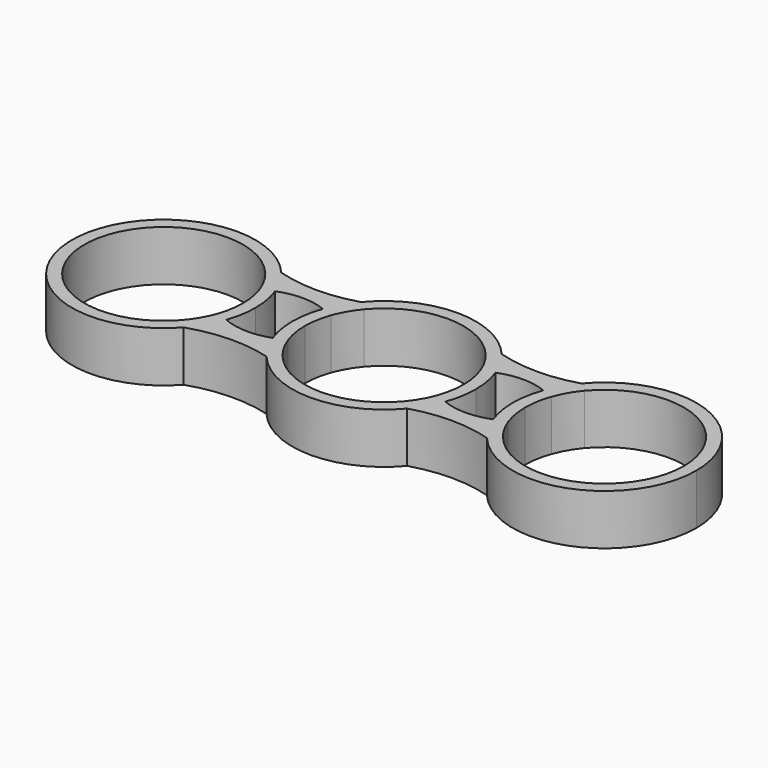
from build123d import *

# Parameters (mm, degrees)
F1_DEPTH = 6.985


with BuildPart() as f1:
    # F0 (on Top) → F1 (new body)
    with BuildSketch(Plane.XY):
        with BuildLine():
            ThreePointArc((8.4056524655, 7.0531798836), (9.5027235506, 5.4864), (10.3110591894, 3.7529186287))
            Line((10.3110591894, 3.7529186287), (11.934096284, 4.3436558202))
            ThreePointArc((11.934096284, 4.3436558202), (10.9985226281, 6.35), (9.7287644276, 8.163402643))
            Line((9.7287644276, 8.163402643), (8.4056524655, 7.0531798836))
        make_face()
        with BuildLine():
            Line((11.934096284, -4.3436558202), (10.3110591894, -3.7529186287))
            ThreePointArc((10.3110591894, -3.7529186287), (9.5027235506, -5.4864), (8.4056524655, -7.0531798836))
            Line((8.4056524655, -7.0531798836), (9.7287644276, -8.163402643))
            ThreePointArc((9.7287644276, -8.163402643), (10.9985226281, -6.35), (11.934096284, -4.3436558202))
        make_face()
        with BuildLine():
            ThreePointArc((-8.4056524655, 7.0531798836), (0, 10.9728), (8.4056524655, 7.0531798836))
            Line((8.4056524655, 7.0531798836), (9.7287644276, 8.163402643))
            ThreePointArc((9.7287644276, 8.163402643), (0, 12.7), (-9.7287644276, 8.163402643))
            Line((-9.7287644276, 8.163402643), (-8.4056524655, 7.0531798836))
        make_face()
        with BuildLine():
            ThreePointArc((9.7287644276, 8.163402643), (10.9985226281, 6.35), (11.934096284, 4.3436558202))
            ThreePointArc((11.934096284, 4.3436558202), (15.24, 4.9811955434), (18.545903716, 4.3436558202))
            ThreePointArc((18.545903716, 4.3436558202), (19.4814773719, 6.35), (20.7512355724, 8.163402643))
            ThreePointArc((20.7512355724, 8.163402643), (15.24, 7.3487743822), (9.7287644276, 8.163402643))
        make_face()
        with BuildLine():
            Line((9.7287644276, -8.163402643), (8.4056524655, -7.0531798836))
            ThreePointArc((8.4056524655, -7.0531798836), (0, -10.9728), (-8.4056524655, -7.0531798836))
            Line((-8.4056524655, -7.0531798836), (-9.7287644276, -8.163402643))
            ThreePointArc((-9.7287644276, -8.163402643), (0, -12.7), (9.7287644276, -8.163402643))
        make_face()
        with BuildLine():
            ThreePointArc((18.545903716, -4.3436558202), (15.24, -4.9811955434), (11.934096284, -4.3436558202))
            ThreePointArc((11.934096284, -4.3436558202), (10.9985226281, -6.35), (9.7287644276, -8.163402643))
            ThreePointArc((9.7287644276, -8.163402643), (15.24, -7.3487743822), (20.7512355724, -8.163402643))
            ThreePointArc((20.7512355724, -8.163402643), (19.4814773719, -6.35), (18.545903716, -4.3436558202))
        make_face()
        with BuildLine():
            Line((-11.934096284, 4.3436558202), (-10.3110591894, 3.7529186287))
            ThreePointArc((-10.3110591894, 3.7529186287), (-9.5027235506, 5.4864), (-8.4056524655, 7.0531798836))
            Line((-8.4056524655, 7.0531798836), (-9.7287644276, 8.163402643))
            ThreePointArc((-9.7287644276, 8.163402643), (-10.9985226281, 6.35), (-11.934096284, 4.3436558202))
        make_face()
        with BuildLine():
            ThreePointArc((-8.4056524655, -7.0531798836), (-9.5027235506, -5.4864), (-10.3110591894, -3.7529186287))
            Line((-10.3110591894, -3.7529186287), (-11.934096284, -4.3436558202))
            ThreePointArc((-11.934096284, -4.3436558202), (-10.9985226281, -6.35), (-9.7287644276, -8.163402643))
            Line((-9.7287644276, -8.163402643), (-8.4056524655, -7.0531798836))
        make_face()
        with BuildLine():
            ThreePointArc((20.7512355724, 8.163402643), (19.4814773719, 6.35), (18.545903716, 4.3436558202))
            Line((18.545903716, 4.3436558202), (20.1689408106, 3.7529186287))
            ThreePointArc((20.1689408106, 3.7529186287), (20.9772764494, 5.4864), (22.0743475345, 7.0531798836))
            Line((22.0743475345, 7.0531798836), (20.7512355724, 8.163402643))
        make_face()
        with BuildLine():
            Line((20.1689408106, -3.7529186287), (18.545903716, -4.3436558202))
            ThreePointArc((18.545903716, -4.3436558202), (19.4814773719, -6.35), (20.7512355724, -8.163402643))
            Line((20.7512355724, -8.163402643), (22.0743475345, -7.0531798836))
            ThreePointArc((22.0743475345, -7.0531798836), (20.9772764494, -5.4864), (20.1689408106, -3.7529186287))
        make_face()
        with BuildLine():
            ThreePointArc((-18.545903716, 4.3436558202), (-15.24, 4.9811955434), (-11.934096284, 4.3436558202))
            ThreePointArc((-11.934096284, 4.3436558202), (-10.9985226281, 6.35), (-9.7287644276, 8.163402643))
            ThreePointArc((-9.7287644276, 8.163402643), (-15.24, 7.3487743822), (-20.7512355724, 8.163402643))
            ThreePointArc((-20.7512355724, 8.163402643), (-19.4814773719, 6.35), (-18.545903716, 4.3436558202))
        make_face()
        with BuildLine():
            ThreePointArc((-9.7287644276, -8.163402643), (-10.9985226281, -6.35), (-11.934096284, -4.3436558202))
            ThreePointArc((-11.934096284, -4.3436558202), (-15.2248499604, -4.8762670638), (-18.480423676, -4.1593470694))
            ThreePointArc((-18.480423676, -4.1593470694), (-19.5213644577, -6.4185907372), (-20.9827230197, -8.4315911879))
            ThreePointArc((-20.9827230197, -8.4315911879), (-15.3760060095, -7.4472334353), (-9.7287644276, -8.163402643))
        make_face()
        with BuildLine():
            ThreePointArc((43.18, 0), (34.8236558202, 11.934096284), (20.7512355724, 8.163402643))
            Line((20.7512355724, 8.163402643), (22.0743475345, 7.0531798836))
            ThreePointArc((22.0743475345, 7.0531798836), (34.2329186287, 10.3110591894), (41.4528, 0))
            ThreePointArc((41.4528, 0), (34.2329186287, -10.3110591894), (22.0743475345, -7.0531798836))
            Line((22.0743475345, -7.0531798836), (20.7512355724, -8.163402643))
            ThreePointArc((20.7512355724, -8.163402643), (34.8236558202, -11.934096284), (43.18, 0))
        make_face()
        with BuildLine():
            Line((-20.1689408106, 3.7529186287), (-18.545903716, 4.3436558202))
            ThreePointArc((-18.545903716, 4.3436558202), (-19.4814773719, 6.35), (-20.7512355724, 8.163402643))
            Line((-20.7512355724, 8.163402643), (-22.0743475345, 7.0531798836))
            ThreePointArc((-22.0743475345, 7.0531798836), (-20.9772764494, 5.4864), (-20.1689408106, 3.7529186287))
        make_face()
        with BuildLine():
            Line((-22.0743475345, 7.0531798836), (-20.7512355724, 8.163402643))
            ThreePointArc((-20.7512355724, 8.163402643), (-43.1787645902, 0.1771380351), (-20.9827230197, -8.4315911879))
            Line((-20.9827230197, -8.4315911879), (-22.2743526891, -7.2848947864))
            ThreePointArc((-22.2743526891, -7.2848947864), (-41.4517326059, 0.1530472623), (-22.0743475345, 7.0531798836))
        make_face()
        with BuildLine():
            ThreePointArc((-20.9827230197, -8.4315911879), (-19.5213644577, -6.4185907372), (-18.480423676, -4.1593470694))
            Line((-18.480423676, -4.1593470694), (-20.112366056, -3.5936758679))
            ThreePointArc((-20.112366056, -3.5936758679), (-21.0117388915, -5.5456623969), (-22.2743526891, -7.2848947864))
            Line((-22.2743526891, -7.2848947864), (-20.9827230197, -8.4315911879))
        make_face()
        with BuildLine():
            Line((-19.5072, 0), (-17.78, 0))
            ThreePointArc((-17.78, 0), (-17.9729415367, 2.2053318564), (-18.545903716, 4.3436558202))
            Line((-18.545903716, 4.3436558202), (-20.1689408106, 3.7529186287))
            ThreePointArc((-20.1689408106, 3.7529186287), (-19.6739014877, 1.9054067239), (-19.5072, 0))
        make_face()
        with BuildLine():
            ThreePointArc((-18.480423676, -4.1593470694), (-17.9563300244, -2.1089547986), (-17.78, 0))
            Line((-17.78, 0), (-19.5072, 0))
            ThreePointArc((-19.5072, 0), (-19.6595491411, -1.8221369459), (-20.112366056, -3.5936758679))
            Line((-20.112366056, -3.5936758679), (-18.480423676, -4.1593470694))
        make_face()
        with BuildLine():
            Line((-12.7, 0), (-10.9728, 0))
            ThreePointArc((-10.9728, 0), (-10.8060985123, 1.9054067239), (-10.3110591894, 3.7529186287))
            Line((-10.3110591894, 3.7529186287), (-11.934096284, 4.3436558202))
            ThreePointArc((-11.934096284, 4.3436558202), (-12.5070584633, 2.2053318564), (-12.7, 0))
        make_face()
        with BuildLine():
            ThreePointArc((-10.3110591894, -3.7529186287), (-10.8060985123, -1.9054067239), (-10.9728, 0))
            Line((-10.9728, 0), (-12.7, 0))
            ThreePointArc((-12.7, 0), (-12.5070584633, -2.2053318564), (-11.934096284, -4.3436558202))
            Line((-11.934096284, -4.3436558202), (-10.3110591894, -3.7529186287))
        make_face()
        with BuildLine():
            ThreePointArc((10.3110591894, 3.7529186287), (10.8060985123, 1.9054067239), (10.9728, 0))
            Line((10.9728, 0), (12.7, 0))
            ThreePointArc((12.7, 0), (12.5070584633, 2.2053318564), (11.934096284, 4.3436558202))
            Line((11.934096284, 4.3436558202), (10.3110591894, 3.7529186287))
        make_face()
        with BuildLine():
            Line((12.7, 0), (10.9728, 0))
            ThreePointArc((10.9728, 0), (10.8060985123, -1.9054067239), (10.3110591894, -3.7529186287))
            Line((10.3110591894, -3.7529186287), (11.934096284, -4.3436558202))
            ThreePointArc((11.934096284, -4.3436558202), (12.5070584633, -2.2053318564), (12.7, 0))
        make_face()
        with BuildLine():
            ThreePointArc((18.545903716, 4.3436558202), (17.9729415367, 2.2053318564), (17.78, 0))
            Line((17.78, 0), (19.5072, 0))
            ThreePointArc((19.5072, 0), (19.6739014877, 1.9054067239), (20.1689408106, 3.7529186287))
            Line((20.1689408106, 3.7529186287), (18.545903716, 4.3436558202))
        make_face()
        with BuildLine():
            Line((19.5072, 0), (17.78, 0))
            ThreePointArc((17.78, 0), (17.9729415367, -2.2053318564), (18.545903716, -4.3436558202))
            Line((18.545903716, -4.3436558202), (20.1689408106, -3.7529186287))
            ThreePointArc((20.1689408106, -3.7529186287), (19.6739014877, -1.9054067239), (19.5072, 0))
        make_face()
    extrude(amount=F1_DEPTH)


solid = f1.part
